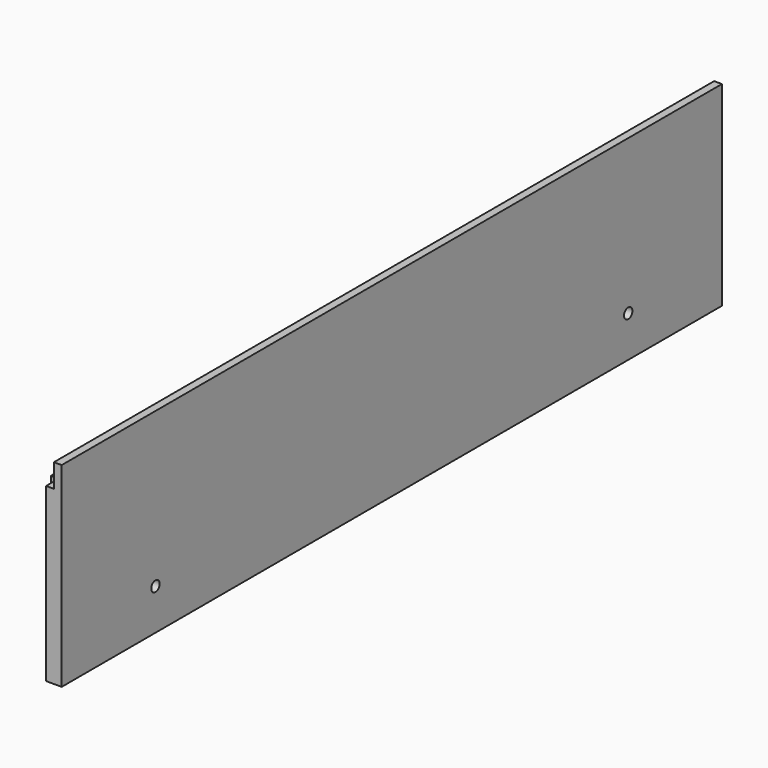
from build123d import *

# Parameters (mm, degrees)
SKETCH032_W             = 634
SKETCH032_H             = 150
PAD012_DEPTH            = 18
SKETCH033_W             = 634
SKETCH033_H             = 18
POCKET020_DEPTH         = 12
SKETCH034_W             = 12
SKETCH034_H             = 150
POCKET021_DEPTH         = 6
SKETCH040_R             = 4
POCKET024_DEPTH         = 18
BODY011_ROLL_ANGLE      = -90
BODY011_PLACEMENT_ANGLE = 90


with BuildPart() as part:
    # Sketch032 → Pad012 (new body)
    with BuildSketch(Plane.XY):
        with Locations((0, 75)):
            Rectangle(SKETCH032_W, SKETCH032_H)
    extrude(amount=PAD012_DEPTH)

    # Sketch033 (on Face6 of Pad012) → Pocket020 (cut)
    with BuildSketch(Plane.XY.offset(18)):
        with Locations((0, 9)):
            Rectangle(SKETCH033_W, SKETCH033_H)
    extrude(amount=-POCKET020_DEPTH, mode=Mode.SUBTRACT)

    # Sketch034 (on Face5 of Pocket020) → Pocket021 (cut)
    with BuildSketch(Plane.XY.offset(18)):
        with Locations((-311, 75)):
            Rectangle(SKETCH034_W, SKETCH034_H)
    extrude(amount=-POCKET021_DEPTH, mode=Mode.SUBTRACT)

    # Sketch040 (on Face2 of Pocket021) → Pocket024 (cut)
    with BuildSketch(Plane(origin=(0, 0, 0), x_dir=(1, 0, 0), z_dir=(0, 0, -1))):
        with Locations((-227, -118.5)):
            Circle(SKETCH040_R)
    pocket024 = extrude(amount=-POCKET024_DEPTH, mode=Mode.SUBTRACT)

    # Mirrored009: Pocket024 across Sketch040 V_Axis
    add(pocket024.mirror(Plane(origin=(0, 0, 0), x_dir=(0, 0, -1), z_dir=(1, 0, 0))), mode=Mode.SUBTRACT)


with BuildPart() as part_1:
    # Body011 roll: moved
    add(part.part.rotate(Axis((0, 0, 0), (1, 0, 0)), BODY011_ROLL_ANGLE))


with BuildPart() as part_2:
    # Body011 placement: moved
    add(part_1.part.moved(Location((263, 323, 150))).rotate(Axis((263, 323, 150), (0, 0, 1)), BODY011_PLACEMENT_ANGLE))


solid = part_2.part
